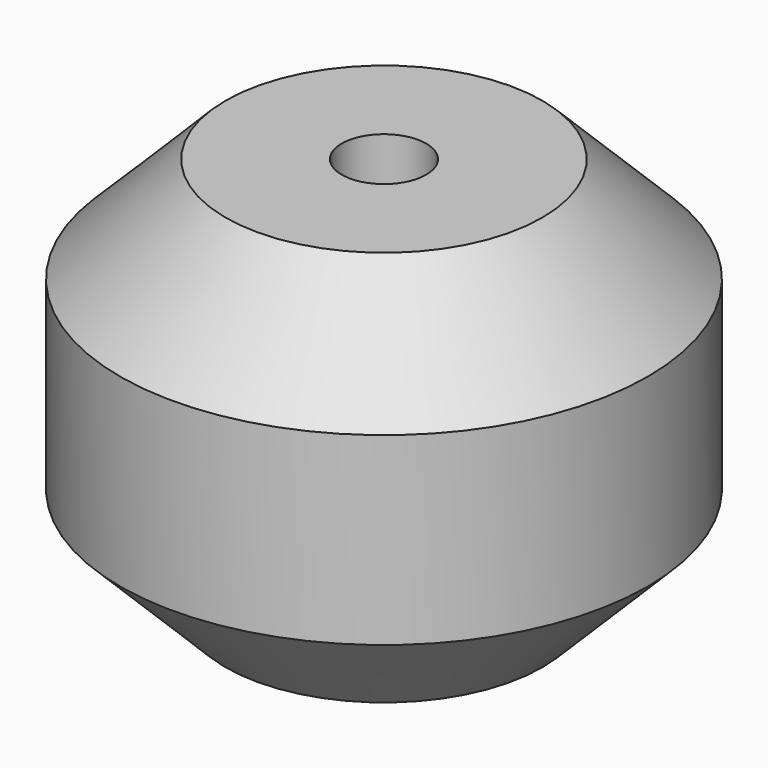
from build123d import *

# Parameters (mm, degrees)
F0_R     = 10
F0_R_2   = 2.85
F0_R_3   = 1.6
F1_DEPTH = 15
F2_SIZE  = 4
F3_DEPTH = 2.04


with BuildPart() as f1:
    # F0 (on Top) → F1 (new body)
    with BuildSketch(Plane.XY):
        Circle(F0_R)
        Circle(F0_R_2, mode=Mode.SUBTRACT)
        Circle(F0_R_2)
        Circle(F0_R_3, mode=Mode.SUBTRACT)
    extrude(amount=F1_DEPTH)

    # F2
    f2_edges = [f1.edges().sort_by_distance(p)[0] for p in [
        (10, 0, 7.5),
        (-10, 0, 0),
        (-10, 0, 15),
    ]]
    chamfer(f2_edges, length=F2_SIZE)

    # F0 (on Top) → F3 (cut)
    with BuildSketch(Plane.XY):
        Circle(F0_R_2)
        Circle(F0_R_3, mode=Mode.SUBTRACT)
    extrude(amount=F3_DEPTH, mode=Mode.SUBTRACT)


solid = f1.part
